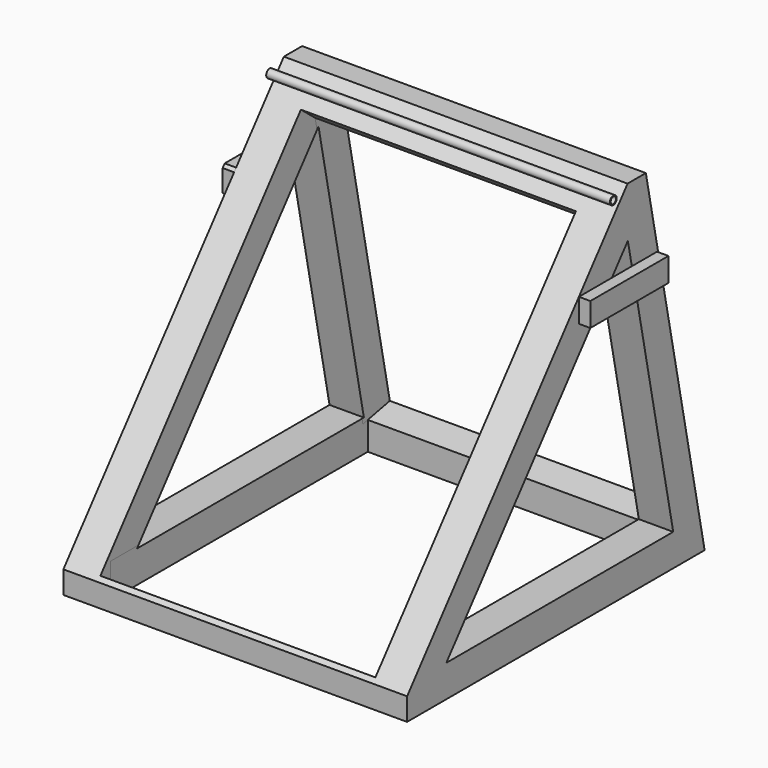
from build123d import *

# Parameters (mm, degrees)
F1_DEPTH  = 19.05
F3_DEPTH  = 50.8
F6_DEPTH  = 1.27
F7_DEPTH  = 1.27
F9_DEPTH  = 4.064
F11_DEPTH = 3.81
F12_W     = 30.4800014411
F12_H     = 35.6379195737
F13_DEPTH = 3.81
F14_R     = 0.1905
F15_DEPTH = 1.016
F17_DEPTH = 50.8
F18_R     = 0.4693884444
F18_R_2   = 0.3677883594
F19_DEPTH = 38.0999
F20_DEPTH = 42.8752


with BuildPart() as f1:
    # F0 (on Right) → F1 (new body, symmetric)
    with BuildSketch(Plane.YZ):
        Polygon((-4.300991216, 39.0530479294), (-38.9073263628, -3.5559992527), (4.3505917698, -3.5559992527), align=None)
        Polygon((-6.2876227312, 30.9665426612), (0, 0), (-31.4381159842, 0), align=None, mode=Mode.SUBTRACT)
    extrude(amount=F1_DEPTH, both=True)

    # F2 (on face) → F3 (cut)
    with BuildSketch(Plane.YZ.offset(19.05)):
        Polygon((-6.3284697347, 36.5567151771), (-3.7941216332, 36.5567151771), (-4.300991216, 39.0530479294), align=None)
    extrude(amount=-F3_DEPTH, mode=Mode.SUBTRACT)

    # F5 (on face) → F6 (join)
    with BuildSketch(Plane(origin=(-19.05, 0, 0), x_dir=(0, -1, 0), z_dir=(-1, 0, 0))):
        Polygon((5.7698168155, 28.4163484679), (2.1412553343, 28.4163484679), (2.1412553343, 25.6189145148), (5.2018099345, 25.6189145148), align=None)
        Polygon((8.3588465857, 28.4163484679), (5.7698168155, 28.4163484679), (5.2018099345, 25.6189145148), (10.6308743201, 25.6189145148), align=None)
        Polygon((12.9399355427, 28.4163484679), (8.3588465857, 28.4163484679), (10.6308743201, 25.6189145148), (13.2188182324, 25.6189145148), (13.2188182324, 28.0729741801), align=None)
    extrude(amount=F6_DEPTH)

    # F4 (on face) → F7 (join)
    with BuildSketch(Plane.YZ.offset(19.05)):
        Polygon((-8.4918548826, 28.2525820137), (-13.0729438396, 28.2525820137), (-13.0729438396, 25.6189145148), (-10.6308743201, 25.6189145148), align=None)
        Polygon((-2.2463577334, 28.2525820137), (-5.7365647443, 28.2525820137), (-5.2018099345, 25.6189145148), (-2.2463577334, 25.6189145148), align=None)
        Polygon((-5.7365647443, 28.2525820137), (-8.4918548826, 28.2525820137), (-10.6308743201, 25.6189145148), (-5.2018099345, 25.6189145148), align=None)
    extrude(amount=F7_DEPTH)

    # F8 (on face) → F9 (cut)
    with BuildSketch(Plane(origin=(0, -21.7030111813, 17.6268123393), x_dir=(1, 0, 0), z_dir=(0, -0.7762344906, 0.6304443002))):
        Polygon((-15.2399991697, 13.4574822013), (-15.2399991697, -23.4791905796), (15.2399991697, -23.4791905796), (15.2399991697, 13.688865676), (15.2399991697, 13.8253802434), (15.2399991697, 20.5768346786), (-15.2399991697, 20.5768346786), (-15.2399991697, 13.8998411689), align=None)
    extrude(amount=-F9_DEPTH, mode=Mode.SUBTRACT)

    # F10 (on face) → F11 (cut)
    with BuildSketch(Plane(origin=(0, 3.4848880888, 0.7075914739), x_dir=(-1, 0, 0), z_dir=(0, 0.9800024806, 0.1989852707))):
        Polygon((15.2400027211, 32.7706485987), (-15.2400027211, 32.7706485987), (-15.2400027211, -0.5405944909), (15.2400027211, -0.5405944909), (15.2400027211, 28.2741702614), align=None)
    extrude(amount=-F11_DEPTH, mode=Mode.SUBTRACT)

    # F12 (on face) → F13 (cut)
    with BuildSketch(Plane(origin=(0, 0, -3.5559992527), x_dir=(1, 0, 0), z_dir=(0, 0, -1))):
        with Locations((0, 17.2783672965)):
            Rectangle(F12_W, F12_H)
    extrude(amount=-F13_DEPTH, mode=Mode.SUBTRACT)

    # F14 (on face) → F15 (join)
    with BuildSketch(Plane(origin=(0, -21.7030111813, 17.6268123393), x_dir=(1, 0, 0), z_dir=(0, -0.7762344906, 0.6304443002))):
        with Locations((-17.1998851001, 22.4818350938)):
            Circle(F14_R)
        with Locations((17.1449995848, 22.4818350938)):
            Circle(F14_R)
    extrude(amount=F15_DEPTH)

    # F16 (on face) → F17 (cut)
    with BuildSketch(Plane.YZ.offset(19.05)):
        Polygon((-38.9073263628, -3.5559992527), (-36.8760041893, -3.5559992527), (-36.8760041893, -1.0549340007), align=None)
    extrude(amount=-F17_DEPTH, mode=Mode.SUBTRACT)

    # F18 (on face) → F19 (join)
    with BuildSketch(Plane(origin=(-19.05, 0, 0), x_dir=(0, -1, 0), z_dir=(-1, 0, 0))):
        with Locations((8.2998776285, 35.7320597078)):
            Circle(F18_R)
        with Locations((8.2998776285, 35.7320597078)):
            Circle(F18_R_2, mode=Mode.SUBTRACT)
    extrude(amount=-F19_DEPTH)

    # F18 (on face) → F20 (cut)
    with BuildSketch(Plane(origin=(-19.05, 0, 0), x_dir=(0, -1, 0), z_dir=(-1, 0, 0))):
        with Locations((8.2998776285, 35.7320597078)):
            Circle(F18_R_2)
    extrude(amount=-F20_DEPTH, mode=Mode.SUBTRACT)


solid = f1.part
